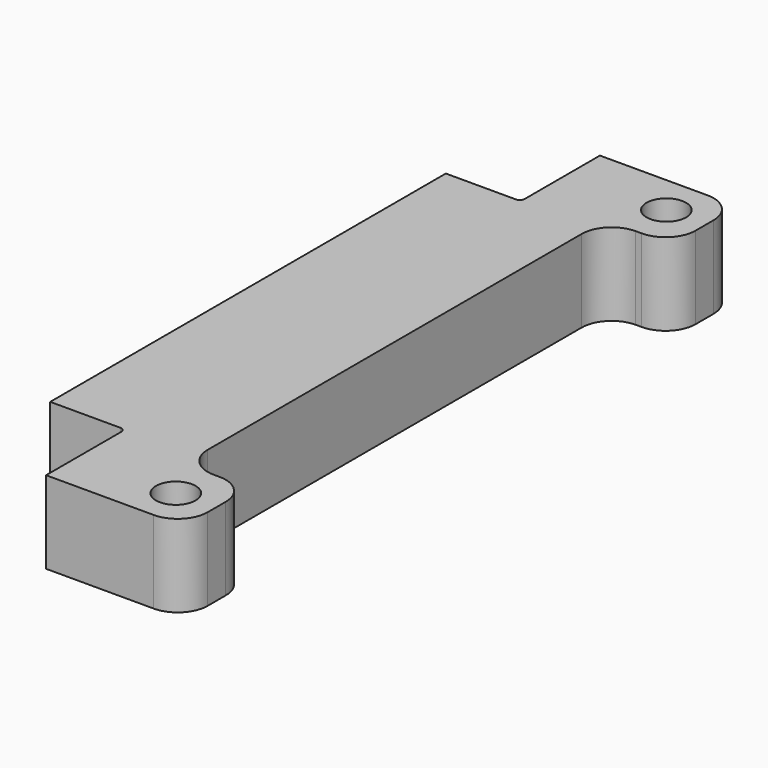
from build123d import *

# Parameters (mm, degrees)
SKETCH021_R          = 33
PAD018_DEPTH         = 12.5
PAD018_DEPTH_BACK    = 12.5
SKETCH_004_R         = 6
POCKET021_DEPTH      = 20
POCKET021_DEPTH_BACK = 20
SKETCH035_W          = 175.5
SKETCH035_H          = 210
POCKET022_DEPTH      = 20
POCKET022_DEPTH_BACK = 20


with BuildPart() as part:
    # Sketch021 → Pad018 (new body, two sides)
    with BuildSketch(Plane.XY) as pad018_sk:
        with BuildLine():
            Line((-110, -105), (110, -105))
            Line((110, -105), (120.90162, -105))
            ThreePointArc((120.90162, -105), (127.335146, -102.335146), (130, -95.90162))
            Line((130, -95.90162), (130, -89.09838))
            ThreePointArc((130, -89.09838), (127.335146, -82.664854), (120.90162, -80))
            Line((120.90162, -80), (119.09838, -80))
            ThreePointArc((110, -70.90162), (112.664854, -77.335146), (119.09838, -80))
            Line((110, -70.90162), (110, 0))
            Line((110, 70.90162), (110, 0))
            ThreePointArc((119.09838, 80), (112.664854, 77.335146), (110, 70.90162))
            Line((120.90162, 80), (119.09838, 80))
            ThreePointArc((120.90162, 80), (127.335146, 82.664854), (130, 89.09838))
            Line((130, 95.90162), (130, 89.09838))
            ThreePointArc((130, 95.90162), (127.335146, 102.335146), (120.90162, 105))
            Line((110, 105), (120.90162, 105))
            Line((110, 105), (-110, 105))
            Line((-110, 105), (-110, 0))
            Line((-110, -105), (-110, 0))
        make_face()
        Circle(SKETCH021_R, mode=Mode.SUBTRACT)
    extrude(amount=-PAD018_DEPTH)
    extrude(pad018_sk.sketch, amount=PAD018_DEPTH_BACK)

    # Sketch_004 → Pocket021 (cut, two sides)
    with BuildSketch(Plane.XY) as pocket021_sk:
        with Locations((-118, 93)):
            Circle(SKETCH_004_R)
        with Locations((118, 93)):
            Circle(SKETCH_004_R)
        with Locations((-118, -93)):
            Circle(SKETCH_004_R)
        with Locations((118, -93)):
            Circle(SKETCH_004_R)
        with BuildLine():
            ThreePointArc((86.75, 75), (87.81066, 75.43934), (88.25, 76.5))
            Line((88.25, 105), (88.25, 76.5))
            Line((88.25, 105), (6.75, 105))
            Line((6.75, 105), (6.75, 76.5))
            ThreePointArc((6.75, 76.5), (7.18934, 75.43934), (8.25, 75))
            Line((86.75, 75), (8.25, 75))
        make_face()
        with BuildLine():
            ThreePointArc((-88.25, 76.5), (-87.81066, 75.43934), (-86.75, 75))
            Line((-86.75, 75), (-8.25, 75))
            ThreePointArc((-8.25, 75), (-7.18934, 75.43934), (-6.75, 76.5))
            Line((-6.75, 105), (-6.75, 76.5))
            Line((-88.25, 105), (-6.75, 105))
            Line((-88.25, 105), (-88.25, 76.5))
        make_face()
        with BuildLine():
            ThreePointArc((88.25, -76.5), (87.81066, -75.43934), (86.75, -75))
            Line((86.75, -75), (8.25, -75))
            ThreePointArc((8.25, -75), (7.18934, -75.43934), (6.75, -76.5))
            Line((6.75, -105), (6.75, -76.5))
            Line((88.25, -105), (6.75, -105))
            Line((88.25, -105), (88.25, -76.5))
        make_face()
        with BuildLine():
            ThreePointArc((-86.75, -75), (-87.81066, -75.43934), (-88.25, -76.5))
            Line((-88.25, -105), (-88.25, -76.5))
            Line((-88.25, -105), (-6.75, -105))
            Line((-6.75, -105), (-6.75, -76.5))
            ThreePointArc((-6.75, -76.5), (-7.18934, -75.43934), (-8.25, -75))
            Line((-86.75, -75), (-8.25, -75))
        make_face()
    extrude(amount=-POCKET021_DEPTH, mode=Mode.SUBTRACT)
    extrude(pocket021_sk.sketch, amount=POCKET021_DEPTH_BACK, mode=Mode.SUBTRACT)

    # Sketch035 → Pocket022 (cut, two sides)
    with BuildSketch(Plane.XY) as pocket022_sk:
        with Locations((-22.25, 0)):
            Rectangle(SKETCH035_W, SKETCH035_H)
    extrude(amount=-POCKET022_DEPTH, mode=Mode.SUBTRACT)
    extrude(pocket022_sk.sketch, amount=POCKET022_DEPTH_BACK, mode=Mode.SUBTRACT)


solid = part.part
